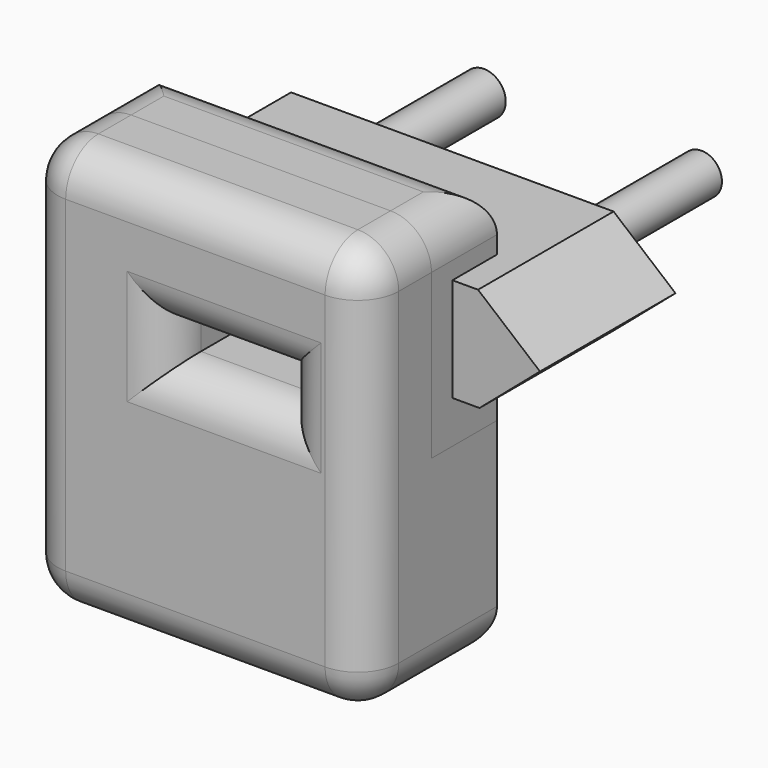
from build123d import *

# Parameters (mm, degrees)
F0_W           = 20
F0_H           = 50
F1_DEPTH       = 41.7
F3_DEPTH       = 13.9
F4_R           = 2.5065170682
F4_R_2         = 2.6565004192
F5_DEPTH       = 20.8
F6_W           = 13.6819668114
F6_H           = 4.0263775736
F7_DEPTH       = 25
F8_R           = 5
F9_DEPTH       = 6.8
F10_W          = 89.1183391213
F10_H          = 31.738139689
F11_DEPTH      = 102.9
F11_DEPTH_BACK = 95.7


with BuildPart() as f1:
    # F0 (on Right) → F1 (new body)
    with BuildSketch(Plane.YZ):
        Rectangle(F0_W, F0_H)
    extrude(amount=F1_DEPTH)

    # F2 (on face) → F3 (join)
    with BuildSketch(Plane(origin=(0, 10, 0), x_dir=(-1, 0, 0), z_dir=(0, 1, 0))):
        Polygon((2.0557455719, 11.5212770179), (-5.4216566496, 17.8550779819), (-44.8319688439, 17.8550779819), (-52.3973405361, 11.5212770179), (-45.0079068542, 5.1874779165), (-4.7179018147, 5.1874779165), align=None)
    extrude(amount=F3_DEPTH)

    # F4 (on face) → F5 (join)
    with BuildSketch(Plane(origin=(0, 23.9, 0), x_dir=(-1, 0, 0), z_dir=(0, 1, 0))):
        with Locations((-38.9291346073, 11.5212770179)):
            Circle(F4_R)
        with Locations((-12.3583860695, 11.5212770179)):
            Circle(F4_R_2)
    extrude(amount=F5_DEPTH)

    # F6 (on face) → F7 (cut)
    with BuildSketch(Plane.XZ.offset(10)):
        with Locations((24.3585463613, 7.6809162274)):
            Rectangle(F6_W, F6_H)
    extrude(amount=-F7_DEPTH, mode=Mode.SUBTRACT)

    # F8
    f8_edges = [f1.edges().sort_by_distance(p)[0] for p in [
        (20.85, -10, 25),
        (0, -10, 0),
        (41.7, -10, 0),
        (20.85, -10, -25),
        (24.358546, -10, 5.667727),
        (17.517563, -10, 7.680916),
        (24.358546, -10, 9.694105),
        (31.19953, -10, 7.680916),
        (20.85, 10, -25),
        (0, 0, -25),
        (41.7, 0, -25),
        (20.85, 10, 25),
        (0, 0, 25),
        (41.7, 0, 25),
    ]]
    fillet(f8_edges, radius=F8_R)

    # F9 (add): faces of the model
    f9_faces = [f1.faces().sort_by_distance(p)[0] for p in [
        (45.5142899313, 10, 11.4945877897),
        (-0.685248524, 10, 11.4609711979),
    ]]
    extrude(f9_faces, amount=F9_DEPTH)


with BuildPart() as f11:
    # F10 (on face) → F11 (new body, two sides)
    with BuildSketch(Plane.YZ.offset(41.7)) as f11_sk:
        with Locations((44.5591695607, 15.8690698445)):
            Rectangle(F10_W, F10_H)
    extrude(amount=-F11_DEPTH)
    extrude(f11_sk.sketch, amount=F11_DEPTH_BACK)


with BuildPart() as f12_1:
    # F12: copy of F11
    add(f11.part)


with BuildPart() as f13_1:
    # F13: copy of F1
    add(f1.part)

    # F15: intersect F12_1
    add(f12_1.part, mode=Mode.INTERSECT)


with BuildPart() as f1_1:
    add(f1.part)

    # F14: cut F11
    add(f11.part, mode=Mode.SUBTRACT)


solid = Compound([f13_1.part, f1_1.part])
